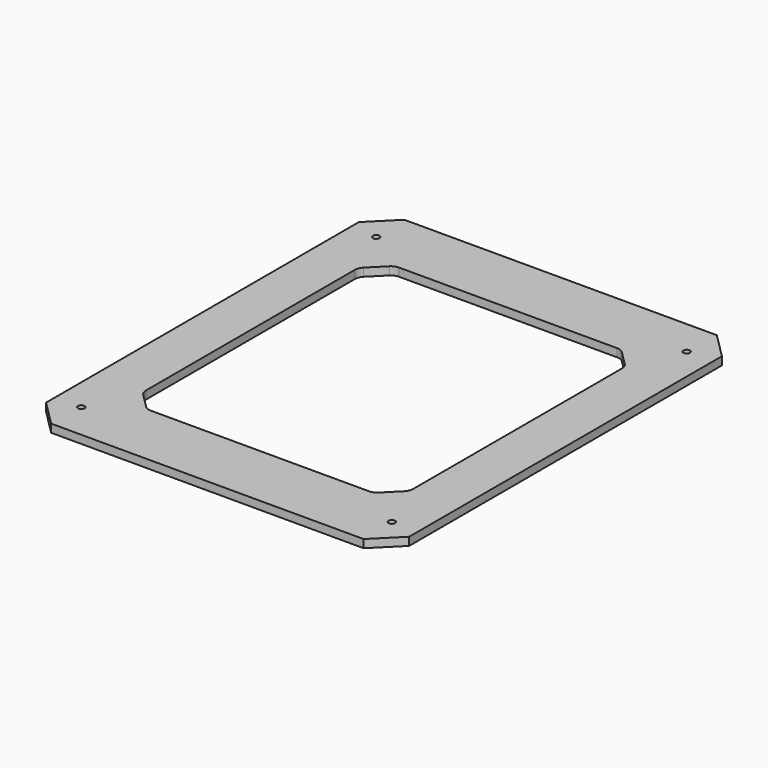
from build123d import *

# Parameters (mm, degrees)
SKETCH_R        = 3.25
PAD_DEPTH       = 8
CHAMFER_SIZE    = 25
CHAMFER001_SIZE = 20
FILLET_R        = 10


with BuildPart() as fillet_body:
    # Sketch → Pad (new body)
    with BuildSketch(Plane.XY):
        Polygon((0, 218.25), (-179.5, 218.25), (-179.5, 0), (-132, 0), (-132, 153.25), (0, 153.25), align=None)
        with Locations((-153.5, 182.25)):
            Circle(SKETCH_R, mode=Mode.SUBTRACT)
    extrude(amount=PAD_DEPTH)

    # Chamfer
    chamfer_edges = [fillet_body.edges().sort_by_distance(p)[0] for p in [
        (-179.5, 218.25, 4),
    ]]
    chamfer(chamfer_edges, length=CHAMFER_SIZE)

    # Chamfer001
    chamfer001_edges = [fillet_body.edges().sort_by_distance(p)[0] for p in [
        (-132, 153.25, 4),
    ]]
    chamfer(chamfer001_edges, length=CHAMFER001_SIZE)

    # Fillet
    fillet_edges = [fillet_body.edges().sort_by_distance(p)[0] for p in [
        (-112, 153.25, 4),
        (-132, 133.25, 4),
    ]]
    fillet(fillet_edges, radius=FILLET_R)


with BuildPart() as part_mirroring:
    # Part__Mirroring: instance of Fillet body
    add(fillet_body.part.mirror(Plane(origin=(0, 0, 0), x_dir=(1, 0, 0), z_dir=(0, 1, 0))))


with BuildPart() as fusion:
    # Fusion base: copy of Fillet body
    add(fillet_body.part)

    # Fusion: union Part__Mirroring
    add(part_mirroring.part)


with BuildPart() as fusion001:
    # Part__Mirroring001: instance of Fusion
    add(fusion.part.mirror(Plane(origin=(0, 0, 0), x_dir=(0, -1, 0), z_dir=(1, 0, 0))))

    # Fusion001: union Fusion
    add(fusion.part)


solid = fusion001.part
